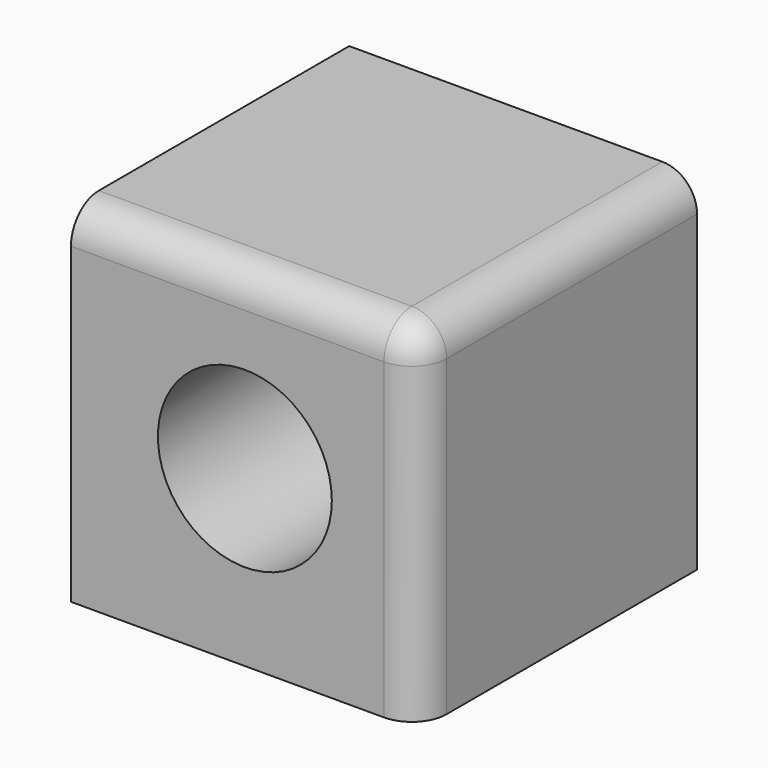
from build123d import *

# Parameters (mm, degrees)
F0_W     = 50
F0_H     = 50
F1_DEPTH = 50
F2_R     = 12.5
F3_DEPTH = 50.001
F4_R     = 5


with BuildPart() as f1:
    # F0 (on Top) → F1 (new body)
    with BuildSketch(Plane.XY):
        with Locations((25, 25)):
            Rectangle(F0_W, F0_H)
    extrude(amount=F1_DEPTH)

    # F2 (on face) → F3 (cut, through all)
    with BuildSketch(Plane.XZ):
        with Locations((25, 25)):
            Circle(F2_R)
    extrude(amount=-F3_DEPTH, mode=Mode.SUBTRACT)

    # F4
    f4_edges = [f1.edges().sort_by_distance(p)[0] for p in [
        (25, 0, 50),
        (50, 25, 50),
        (50, 0, 25),
    ]]
    fillet(f4_edges, radius=F4_R)


solid = f1.part
